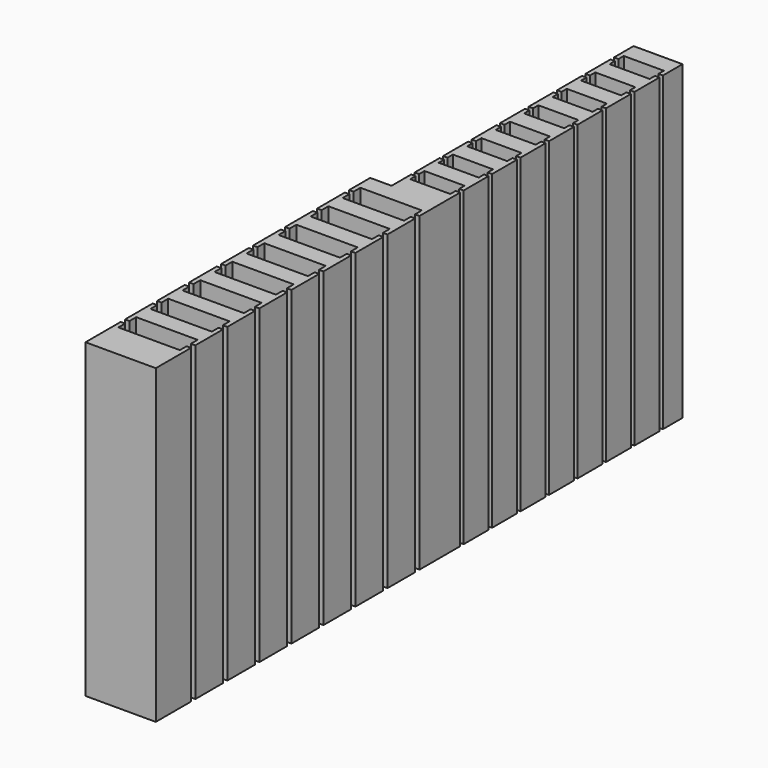
from build123d import *

# Parameters (mm, degrees)
SKETCH_W        = 7.9
SKETCH_H        = 40
PAD_DEPTH       = 35
SKETCH001_W     = 5.5
SKETCH001_H     = 34
PAD001_DEPTH    = 35
SKETCH002_W     = 4.5
SKETCH002_H     = 2
POCKET_DEPTH    = 2
SKETCH003_W     = 0.5
SKETCH003_H     = 35
POCKET001_DEPTH = 0.5
SKETCH004_W     = 0.5
SKETCH004_H     = 35
POCKET002_DEPTH = 0.5
SKETCH005_W     = 6.9
SKETCH005_H     = 2.5
POCKET003_DEPTH = 2.5
SKETCH006_W     = 0.6
SKETCH006_H     = 35
POCKET004_DEPTH = 0.5
SKETCH007_W     = 0.6
SKETCH007_H     = 35
POCKET005_DEPTH = 0.5


with BuildPart() as part:
    # Sketch → Pad (new body)
    with BuildSketch(Plane.XY):
        with Locations((-3.95, -20)):
            Rectangle(SKETCH_W, SKETCH_H)
    extrude(amount=PAD_DEPTH)

    # Sketch001 → Pad001 (join)
    with BuildSketch(Plane.XY):
        with Locations((-2.75, 17)):
            Rectangle(SKETCH001_W, SKETCH001_H)
    extrude(amount=PAD001_DEPTH)

    # Sketch002 (on Face7 of Pad001) → Pocket (cut)
    with BuildSketch(Plane.XY.offset(35)):
        with Locations((-2.75, 3)):
            Rectangle(SKETCH002_W, SKETCH002_H)
        with Locations((-2.75, 7)):
            Rectangle(SKETCH002_W, SKETCH002_H)
        with Locations((-2.75, 11)):
            Rectangle(SKETCH002_W, SKETCH002_H)
        with Locations((-2.75, 15)):
            Rectangle(SKETCH002_W, SKETCH002_H)
        with Locations((-2.75, 19)):
            Rectangle(SKETCH002_W, SKETCH002_H)
        with Locations((-2.75, 23)):
            Rectangle(SKETCH002_W, SKETCH002_H)
        with Locations((-2.75, 27)):
            Rectangle(SKETCH002_W, SKETCH002_H)
        with Locations((-2.75, 31)):
            Rectangle(SKETCH002_W, SKETCH002_H)
    extrude(amount=-POCKET_DEPTH, mode=Mode.SUBTRACT)

    # Sketch003 (on Face7 of Pocket) → Pocket001 (cut)
    with BuildSketch(Plane.YZ):
        with Locations((3, 17.5)):
            Rectangle(SKETCH003_W, SKETCH003_H)
        with Locations((7, 17.5)):
            Rectangle(SKETCH003_W, SKETCH003_H)
        with Locations((11, 17.5)):
            Rectangle(SKETCH003_W, SKETCH003_H)
        with Locations((15, 17.5)):
            Rectangle(SKETCH003_W, SKETCH003_H)
        with Locations((19, 17.5)):
            Rectangle(SKETCH003_W, SKETCH003_H)
        with Locations((23, 17.5)):
            Rectangle(SKETCH003_W, SKETCH003_H)
        with Locations((27, 17.5)):
            Rectangle(SKETCH003_W, SKETCH003_H)
        with Locations((31, 17.5)):
            Rectangle(SKETCH003_W, SKETCH003_H)
    extrude(amount=-POCKET001_DEPTH, mode=Mode.SUBTRACT)

    # Sketch004 (on Face5 of Pocket001) → Pocket002 (cut)
    with BuildSketch(Plane(origin=(-5.5, 0, 0), x_dir=(0, -1, 0), z_dir=(-1, 0, 0))):
        with Locations((-3, 17.5)):
            Rectangle(SKETCH004_W, SKETCH004_H)
        with Locations((-7, 17.5)):
            Rectangle(SKETCH004_W, SKETCH004_H)
        with Locations((-11, 17.5)):
            Rectangle(SKETCH004_W, SKETCH004_H)
        with Locations((-15, 17.5)):
            Rectangle(SKETCH004_W, SKETCH004_H)
        with Locations((-19, 17.5)):
            Rectangle(SKETCH004_W, SKETCH004_H)
        with Locations((-23, 17.5)):
            Rectangle(SKETCH004_W, SKETCH004_H)
        with Locations((-27, 17.5)):
            Rectangle(SKETCH004_W, SKETCH004_H)
        with Locations((-31, 17.5)):
            Rectangle(SKETCH004_W, SKETCH004_H)
    extrude(amount=-POCKET002_DEPTH, mode=Mode.SUBTRACT)

    # Sketch005 (on Face4 of Pocket002) → Pocket003 (cut)
    with BuildSketch(Plane.XY.offset(35)):
        with Locations((-3.95, -3.25)):
            Rectangle(SKETCH005_W, SKETCH005_H)
        with Locations((-3.95, -7.75)):
            Rectangle(SKETCH005_W, SKETCH005_H)
        with Locations((-3.95, -12.25)):
            Rectangle(SKETCH005_W, SKETCH005_H)
        with Locations((-3.95, -16.75)):
            Rectangle(SKETCH005_W, SKETCH005_H)
        with Locations((-3.95, -21.25)):
            Rectangle(SKETCH005_W, SKETCH005_H)
        with Locations((-3.95, -25.75)):
            Rectangle(SKETCH005_W, SKETCH005_H)
        with Locations((-3.95, -30.25)):
            Rectangle(SKETCH005_W, SKETCH005_H)
        with Locations((-3.95, -34.75)):
            Rectangle(SKETCH005_W, SKETCH005_H)
    extrude(amount=-POCKET003_DEPTH, mode=Mode.SUBTRACT)

    # Sketch006 (on Face7 of Pocket003) → Pocket004 (cut)
    with BuildSketch(Plane.YZ):
        with Locations((-3.25, 17.5)):
            Rectangle(SKETCH006_W, SKETCH006_H)
        with Locations((-7.75, 17.5)):
            Rectangle(SKETCH006_W, SKETCH006_H)
        with Locations((-12.25, 17.5)):
            Rectangle(SKETCH006_W, SKETCH006_H)
        with Locations((-16.75, 17.5)):
            Rectangle(SKETCH006_W, SKETCH006_H)
        with Locations((-21.25, 17.5)):
            Rectangle(SKETCH006_W, SKETCH006_H)
        with Locations((-25.75, 17.5)):
            Rectangle(SKETCH006_W, SKETCH006_H)
        with Locations((-30.25, 17.5)):
            Rectangle(SKETCH006_W, SKETCH006_H)
        with Locations((-34.75, 17.5)):
            Rectangle(SKETCH006_W, SKETCH006_H)
    extrude(amount=-POCKET004_DEPTH, mode=Mode.SUBTRACT)

    # Sketch007 (on Face3 of Pocket004) → Pocket005 (cut)
    with BuildSketch(Plane(origin=(-7.9, 0, 0), x_dir=(0, -1, 0), z_dir=(-1, 0, 0))):
        with Locations((3.25, 17.5)):
            Rectangle(SKETCH007_W, SKETCH007_H)
        with Locations((7.75, 17.5)):
            Rectangle(SKETCH007_W, SKETCH007_H)
        with Locations((12.25, 17.5)):
            Rectangle(SKETCH007_W, SKETCH007_H)
        with Locations((16.75, 17.5)):
            Rectangle(SKETCH007_W, SKETCH007_H)
        with Locations((21.25, 17.5)):
            Rectangle(SKETCH007_W, SKETCH007_H)
        with Locations((25.75, 17.5)):
            Rectangle(SKETCH007_W, SKETCH007_H)
        with Locations((30.25, 17.5)):
            Rectangle(SKETCH007_W, SKETCH007_H)
        with Locations((34.75, 17.5)):
            Rectangle(SKETCH007_W, SKETCH007_H)
    extrude(amount=-POCKET005_DEPTH, mode=Mode.SUBTRACT)


solid = part.part
